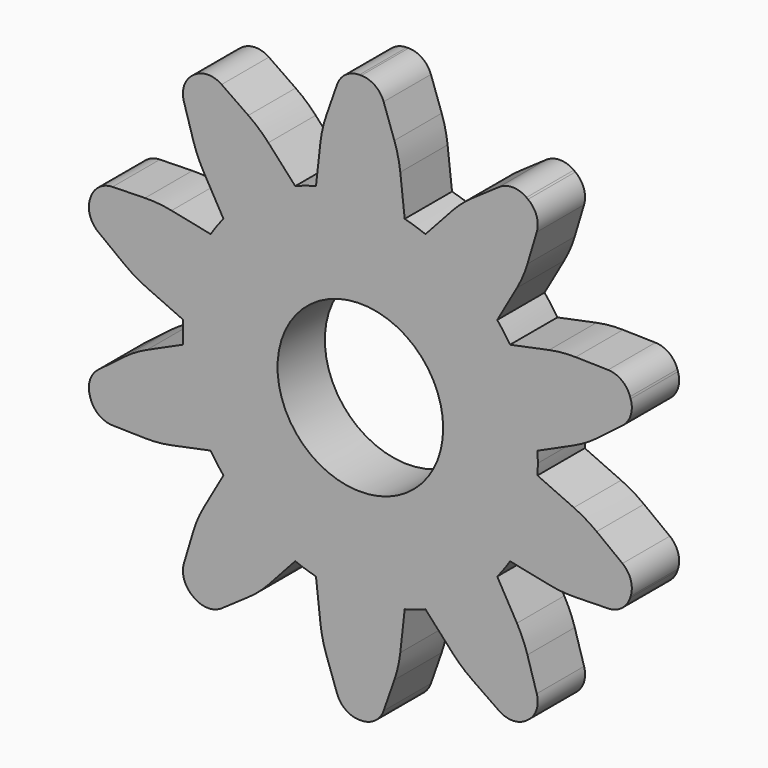
from build123d import *

# Parameters (mm, degrees)
F0_R     = 3.556
F1_DEPTH = 2.54
F2_R     = 5.08
F3_R     = 1.016
F4_SCALE = 0.5


with BuildPart() as f1:
    # F0 (on Front) → F1 (new body)
    with BuildSketch(Plane.XZ):
        with BuildLine():
            ThreePointArc((7.6056039975, -0.4681750033), (7.616400149, -0.2341981419), (7.62, 0))
            ThreePointArc((7.62, 0), (7.616400149, 0.2341981419), (7.6056039975, 0.4681750033))
            ThreePointArc((7.6056039975, 0.4681750033), (7.2470506542, 2.3547094971), (6.4282492489, 4.0917003304))
            ThreePointArc((6.4282492489, 4.0917003304), (6.1647094971, 4.4789236225), (5.877876524, 4.8492233985))
            ThreePointArc((5.877876524, 4.8492233985), (4.4789236225, 6.1647094971), (2.7955217754, 7.0886852098))
            ThreePointArc((2.7955217754, 7.0886852098), (2.3547094971, 7.2470506542), (1.905, 7.3780332745))
            ThreePointArc((1.905, 7.3780332745), (0, 7.62), (-1.905, 7.3780332745))
            ThreePointArc((-1.905, 7.3780332745), (-2.3547094971, 7.2470506542), (-2.7955217754, 7.0886852098))
            ThreePointArc((-2.7955217754, 7.0886852098), (-4.4789236225, 6.1647094971), (-5.877876524, 4.8492233985))
            ThreePointArc((-5.877876524, 4.8492233985), (-6.1647094971, 4.4789236225), (-6.4282492489, 4.0917003304))
            ThreePointArc((-6.4282492489, 4.0917003304), (-7.2470506542, 2.3547094971), (-7.6056039975, 0.4681750033))
            ThreePointArc((-7.6056039975, 0.4681750033), (-7.62, 0), (-7.6056039975, -0.4681750033))
            ThreePointArc((-7.6056039975, -0.4681750033), (-7.2470506542, -2.3547094971), (-6.4282492489, -4.0917003304))
            ThreePointArc((-6.4282492489, -4.0917003304), (-6.1647094971, -4.4789236225), (-5.877876524, -4.8492233985))
            ThreePointArc((-5.877876524, -4.8492233985), (-4.4789236225, -6.1647094971), (-2.7955217754, -7.0886852098))
            ThreePointArc((-2.7955217754, -7.0886852098), (-2.3547094971, -7.2470506542), (-1.905, -7.3780332745))
            ThreePointArc((-1.905, -7.3780332745), (0, -7.62), (1.905, -7.3780332745))
            ThreePointArc((1.905, -7.3780332745), (2.3547094971, -7.2470506542), (2.7955217754, -7.0886852098))
            ThreePointArc((2.7955217754, -7.0886852098), (4.4789236225, -6.1647094971), (5.877876524, -4.8492233985))
            ThreePointArc((5.877876524, -4.8492233985), (6.1647094971, -4.4789236225), (6.4282492489, -4.0917003304))
            ThreePointArc((6.4282492489, -4.0917003304), (7.2470506542, -2.3547094971), (7.6056039975, -0.4681750033))
        make_face()
        Circle(F0_R, mode=Mode.SUBTRACT)
        with BuildLine():
            ThreePointArc((6.4282492489, 4.0917003304), (7.2470506542, 2.3547094971), (7.6056039975, 0.4681750033))
            Line((7.6056039975, 0.4681750033), (9.689784553, 1.4124377213))
            Line((9.689784553, 1.4124377213), (11.8307519964, 3.04283013))
            Line((11.8307519964, 3.04283013), (11.359810097, 4.4922402608))
            Line((11.359810097, 4.4922402608), (8.6694104376, 4.5528263381))
            Line((8.6694104376, 4.5528263381), (6.4282492489, 4.0917003304))
        make_face()
        with BuildLine():
            Line((9.689784553, -1.4124377213), (7.6056039975, -0.4681750033))
            ThreePointArc((7.6056039975, -0.4681750033), (7.2470506542, -2.3547094971), (6.4282492489, -4.0917003304))
            Line((6.4282492489, -4.0917003304), (8.6694104376, -4.5528263381))
            Line((8.6694104376, -4.5528263381), (11.359810097, -4.4922402608))
            Line((11.359810097, -4.4922402608), (11.8307519964, -3.04283013))
            Line((11.8307519964, -3.04283013), (9.689784553, -1.4124377213))
        make_face()
        with BuildLine():
            ThreePointArc((2.7955217754, 7.0886852098), (4.4789236225, 6.1647094971), (5.877876524, 4.8492233985))
            Line((5.877876524, 4.8492233985), (7.0089903128, 6.8381985782))
            Line((7.0089903128, 6.8381985782), (7.7827487457, 9.4156428332))
            Line((7.7827487457, 9.4156428332), (6.5498068462, 10.3114275577))
            Line((6.5498068462, 10.3114275577), (4.3376161974, 8.7790654812))
            Line((4.3376161974, 8.7790654812), (2.7955217754, 7.0886852098))
        make_face()
        with BuildLine():
            Line((7.0089903128, -6.8381985782), (5.877876524, -4.8492233985))
            ThreePointArc((5.877876524, -4.8492233985), (4.4789236225, -6.1647094971), (2.7955217754, -7.0886852098))
            Line((2.7955217754, -7.0886852098), (4.3376161974, -8.7790654812))
            Line((4.3376161974, -8.7790654812), (6.5498068462, -10.3114275577))
            Line((6.5498068462, -10.3114275577), (7.7827487457, -9.4156428332))
            Line((7.7827487457, -9.4156428332), (7.0089903128, -6.8381985782))
        make_face()
        with BuildLine():
            ThreePointArc((-1.905, 7.3780332745), (0, 7.62), (1.905, 7.3780332745))
            Line((1.905, 7.3780332745), (1.651, 9.652))
            Line((1.651, 9.652), (0.762, 12.192))
            Line((0.762, 12.192), (-0.762, 12.192))
            Line((-0.762, 12.192), (-1.651, 9.652))
            Line((-1.651, 9.652), (-1.905, 7.3780332745))
        make_face()
        with BuildLine():
            Line((1.651, -9.652), (1.905, -7.3780332745))
            ThreePointArc((1.905, -7.3780332745), (0, -7.62), (-1.905, -7.3780332745))
            Line((-1.905, -7.3780332745), (-1.651, -9.652))
            Line((-1.651, -9.652), (-0.762, -12.192))
            Line((-0.762, -12.192), (0.762, -12.192))
            Line((0.762, -12.192), (1.651, -9.652))
        make_face()
        with BuildLine():
            ThreePointArc((-5.877876524, 4.8492233985), (-4.4789236225, 6.1647094971), (-2.7955217754, 7.0886852098))
            Line((-2.7955217754, 7.0886852098), (-4.3376161974, 8.7790654812))
            Line((-4.3376161974, 8.7790654812), (-6.5498068462, 10.3114275577))
            Line((-6.5498068462, 10.3114275577), (-7.7827487457, 9.4156428332))
            Line((-7.7827487457, 9.4156428332), (-7.0089903128, 6.8381985782))
            Line((-7.0089903128, 6.8381985782), (-5.877876524, 4.8492233985))
        make_face()
        with BuildLine():
            Line((-4.3376161974, -8.7790654812), (-2.7955217754, -7.0886852098))
            ThreePointArc((-2.7955217754, -7.0886852098), (-4.4789236225, -6.1647094971), (-5.877876524, -4.8492233985))
            Line((-5.877876524, -4.8492233985), (-7.0089903128, -6.8381985782))
            Line((-7.0089903128, -6.8381985782), (-7.7827487457, -9.4156428332))
            Line((-7.7827487457, -9.4156428332), (-6.5498068462, -10.3114275577))
            Line((-6.5498068462, -10.3114275577), (-4.3376161974, -8.7790654812))
        make_face()
        with BuildLine():
            ThreePointArc((-7.6056039975, 0.4681750033), (-7.2470506542, 2.3547094971), (-6.4282492489, 4.0917003304))
            Line((-6.4282492489, 4.0917003304), (-8.6694104376, 4.5528263381))
            Line((-8.6694104376, 4.5528263381), (-11.359810097, 4.4922402608))
            Line((-11.359810097, 4.4922402608), (-11.8307519964, 3.04283013))
            Line((-11.8307519964, 3.04283013), (-9.689784553, 1.4124377213))
            Line((-9.689784553, 1.4124377213), (-7.6056039975, 0.4681750033))
        make_face()
        with BuildLine():
            Line((-8.6694104376, -4.5528263381), (-6.4282492489, -4.0917003304))
            ThreePointArc((-6.4282492489, -4.0917003304), (-7.2470506542, -2.3547094971), (-7.6056039975, -0.4681750033))
            Line((-7.6056039975, -0.4681750033), (-9.689784553, -1.4124377213))
            Line((-9.689784553, -1.4124377213), (-11.8307519964, -3.04283013))
            Line((-11.8307519964, -3.04283013), (-11.359810097, -4.4922402608))
            Line((-11.359810097, -4.4922402608), (-8.6694104376, -4.5528263381))
        make_face()
    extrude(amount=F1_DEPTH)

    # F2
    f2_edges = [f1.edges().sort_by_distance(p)[0] for p in [
        (7.00899, -1.27, 6.838199),
        (4.337616, -1.27, 8.779065),
        (1.651, -1.27, 9.652),
        (-4.337616, -1.27, 8.779065),
        (-8.66941, -1.27, 4.552826),
        (-9.689785, -1.27, -1.412438),
        (-7.00899, -1.27, -6.838199),
        (-1.651, -1.27, -9.652),
        (4.337616, -1.27, -8.779065),
        (8.66941, -1.27, -4.552826),
        (9.689785, -1.27, 1.412438),
        (9.689785, -1.27, -1.412438),
        (8.66941, -1.27, 4.552826),
        (-1.651, -1.27, 9.652),
        (-7.00899, -1.27, 6.838199),
        (-9.689785, -1.27, 1.412438),
        (-8.66941, -1.27, -4.552826),
        (-4.337616, -1.27, -8.779065),
        (1.651, -1.27, -9.652),
        (7.00899, -1.27, -6.838199),
    ]]
    fillet(f2_edges, radius=F2_R)

    # F3
    f3_edges = [f1.edges().sort_by_distance(p)[0] for p in [
        (0.762, -1.27, 12.192),
        (-0.762, -1.27, 12.192),
        (-6.549807, -1.27, 10.311428),
        (-7.782749, -1.27, 9.415643),
        (-11.35981, -1.27, 4.49224),
        (6.549807, -1.27, 10.311428),
        (7.782749, -1.27, 9.415643),
        (11.35981, -1.27, 4.49224),
        (-11.830752, -1.27, 3.04283),
        (-11.830752, -1.27, -3.04283),
        (-11.35981, -1.27, -4.49224),
        (-7.782749, -1.27, -9.415643),
        (-6.549807, -1.27, -10.311428),
        (-0.762, -1.27, -12.192),
        (0.762, -1.27, -12.192),
        (6.549807, -1.27, -10.311428),
        (7.782749, -1.27, -9.415643),
        (11.830752, -1.27, -3.04283),
        (11.35981, -1.27, -4.49224),
        (11.830752, -1.27, 3.04283),
    ]]
    fillet(f3_edges, radius=F3_R)


with BuildPart() as f1_1:
    # F4: moved
    add(f1.part.scale(F4_SCALE))


solid = f1_1.part
